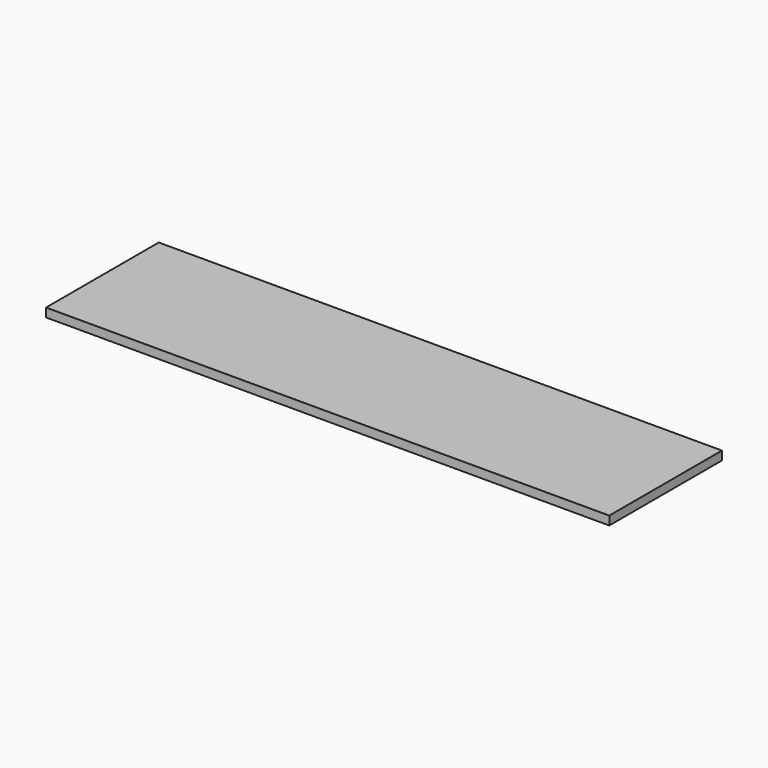
from build123d import *

# Parameters (mm, degrees)
F0_W      = 2500
F0_H      = 625
F1_DEPTH  = 3
F1_FACE_W = 2500
F1_FACE_H = 625
F2_DEPTH  = 36


with BuildPart() as f1:
    # F0 (on Top) → F1 (new body)
    with BuildSketch(Plane.XY):
        with Locations((1250, 312.5)):
            Rectangle(F0_W, F0_H)
    extrude(amount=F1_DEPTH)


with BuildPart() as f2:
    # F1_face (on face) → F2 (new body)
    with BuildSketch(Plane(origin=(1250, 312.5, 0), x_dir=(1, 0, 0), z_dir=(0, 0, -1))):
        Rectangle(F1_FACE_W, F1_FACE_H)
    extrude(amount=F2_DEPTH)


solid = Compound([f1.part, f2.part])
